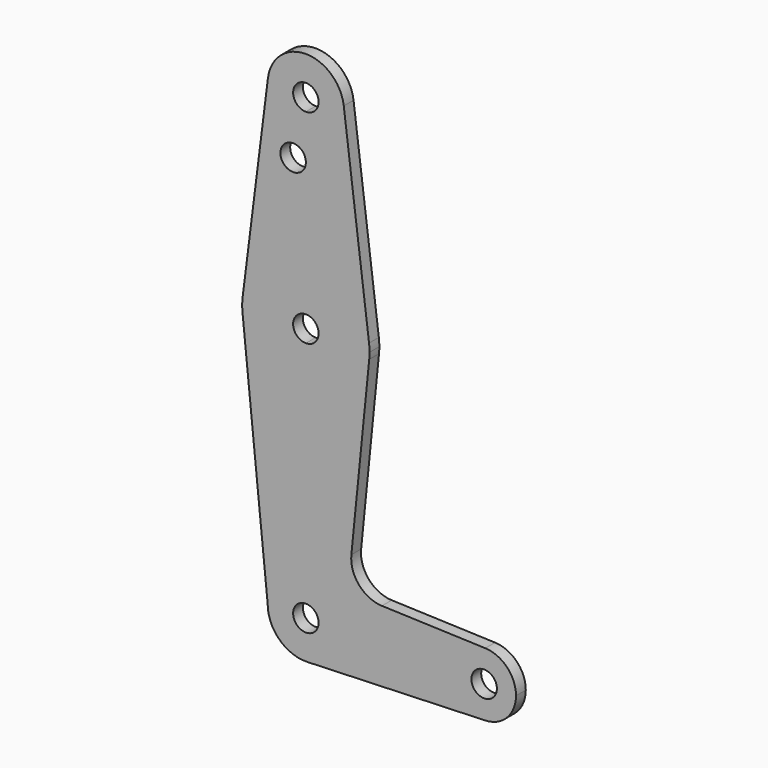
from build123d import *

# Parameters (mm, degrees)
F0_R     = 3.175
F1_DEPTH = 3.048


with BuildPart() as f1:
    # F0 (on Front) → F1 (new body)
    with BuildSketch(Plane.XZ):
        with BuildLine():
            ThreePointArc((-15.6978424192, 65.8650303134), (-15.7506727309, 65.4829103672), (-15.7942028036, 65.0996195795))
            Line((-15.7942028036, 65.0996195795), (-15.6978424192, 65.8650303134))
        make_face()
        with BuildLine():
            Line((0, 100.0252), (0, 79.375))
            ThreePointArc((0, 79.375), (10.5003255158, 75.40625), (15.7504882737, 65.484375))
            Line((15.7504882737, 65.484375), (9.4502929642, 115.490625))
            ThreePointArc((9.4502929642, 115.490625), (9.5063048942, 114.896483242), (9.525, 114.3))
            ThreePointArc((9.525, 114.3), (6.7351920908, 107.5648079092), (0, 104.775))
            Line((0, 104.775), (0, 100.0252))
        make_face()
        with BuildLine():
            Line((36.5125, 0), (9.525, 0))
            ThreePointArc((9.525, 0), (6.8544082832, -6.6138273403), (0.3401785645, -9.5189234446))
            Line((0.3401785645, -9.5189234446), (44.7334821429, -7.9324362036))
            ThreePointArc((44.7334821429, -7.9324362036), (38.9384772185, -5.7120069047), (36.5125, 0))
        make_face()
        with BuildLine():
            ThreePointArc((9.4502929642, 115.490625), (-0.0004428607, 123.8249999897), (-9.4504036385, 115.4897462203))
            ThreePointArc((-9.4504036385, 115.4897462203), (-7.1434570674, 107.9994725518), (0, 104.775))
            ThreePointArc((0, 104.775), (6.7351920908, 107.5648079092), (9.525, 114.3))
            ThreePointArc((9.525, 114.3), (9.5063048942, 114.896483242), (9.4502929642, 115.490625))
        make_face()
        with BuildLine():
            ThreePointArc((3.175, 114.3), (2.2450640303, 112.0549359697), (0, 111.125))
            ThreePointArc((0, 111.125), (-2.2450640303, 116.5450640303), (3.175, 114.3))
        make_face(mode=Mode.SUBTRACT)
        with BuildLine():
            ThreePointArc((44.7324052746, 7.9324746146), (38.9380895153, 5.7116327839), (36.5125, 0))
            ThreePointArc((36.5125, 0), (38.9384772185, -5.7120069047), (44.7334821429, -7.9324362036))
            ThreePointArc((44.7334821429, -7.9324362036), (50.1620069047, -5.5115227815), (52.3875, 0))
            ThreePointArc((52.3875, 0), (50.1616327839, 5.5119104847), (44.7324052746, 7.9324746146))
        make_face()
        with BuildLine():
            ThreePointArc((47.625, 0), (44.45, -3.175), (41.275, 0))
            ThreePointArc((41.275, 0), (44.45, 3.175), (47.625, 0))
        make_face(mode=Mode.SUBTRACT)
        with BuildLine():
            ThreePointArc((3.175, 0), (-2.2450640303, -2.2450640303), (0, 3.175))
            Line((0, 3.175), (0, 9.525))
            ThreePointArc((0, 9.525), (-6.7351920908, 6.7351920908), (-9.525, 0))
            ThreePointArc((-9.525, 0), (-6.6138273403, -6.8544082832), (0.3401785645, -9.5189234446))
            ThreePointArc((0.3401785645, -9.5189234446), (6.8544082832, -6.6138273403), (9.525, 0))
            Line((9.525, 0), (3.175, 0))
        make_face()
        with BuildLine():
            Line((0, 60.325), (0, 47.625))
            ThreePointArc((0, 47.625), (10.6492737428, 51.7267849017), (15.7954255641, 61.9125))
            ThreePointArc((15.7954255641, 61.9125), (15.8550939106, 62.7052534459), (15.875, 63.5))
            ThreePointArc((15.875, 63.5), (15.8438414904, 64.4941387366), (15.7504882737, 65.484375))
            ThreePointArc((15.7504882737, 65.484375), (10.5003255158, 75.40625), (0, 79.375))
            Line((0, 79.375), (0, 66.675))
            ThreePointArc((0, 66.675), (2.2450640303, 65.7450640303), (3.175, 63.5))
            ThreePointArc((3.175, 63.5), (2.2450640303, 61.2549359697), (0, 60.325))
        make_face()
        with BuildLine():
            ThreePointArc((-15.6978424192, 65.8650303134), (-10.3554519161, 75.5324661069), (0, 79.375))
            Line((0, 79.375), (0, 100.0252))
            Line((0, 100.0252), (0, 104.775))
            ThreePointArc((0, 104.775), (-7.1434570674, 107.9994725518), (-9.4504036385, 115.4897462203))
            Line((-9.4504036385, 115.4897462203), (-15.6978424192, 65.8650303134))
        make_face()
        with Locations((-3.175, 100.0252)):
            Circle(F0_R, mode=Mode.SUBTRACT)
        with BuildLine():
            Line((0, 47.625), (0, 9.525))
            ThreePointArc((0, 9.525), (6.7351920908, 6.7351920908), (9.525, 0))
            Line((9.525, 0), (36.5125, 0))
            ThreePointArc((36.5125, 0), (38.9380895153, 5.7116327839), (44.7324052746, 7.9324746146))
            Line((44.7324052746, 7.9324746146), (18.968327868, 8.8497055806))
            ThreePointArc((18.968327868, 8.8497055806), (13.2612039825, 11.5674628959), (11.3408358685, 17.5898921545))
            Line((11.3408358685, 17.5898921545), (15.7954255641, 61.9125))
            ThreePointArc((15.7954255641, 61.9125), (10.6492737428, 51.7267849017), (0, 47.625))
        make_face()
        with BuildLine():
            ThreePointArc((-15.7942028036, 61.9003804205), (-10.644756084, 51.722700101), (0, 47.625))
            Line((0, 47.625), (0, 60.325))
            ThreePointArc((0, 60.325), (-3.175, 63.5), (0, 66.675))
            Line((0, 66.675), (0, 79.375))
            ThreePointArc((0, 79.375), (-10.3554519161, 75.5324661069), (-15.6978424192, 65.8650303134))
            Line((-15.6978424192, 65.8650303134), (-15.7942028036, 65.0996195795))
            ThreePointArc((-15.7942028036, 65.0996195795), (-15.875, 63.5), (-15.7942028036, 61.9003804205))
        make_face()
        with BuildLine():
            ThreePointArc((-9.525, 0), (-6.7351920908, 6.7351920908), (0, 9.525))
            Line((0, 9.525), (0, 47.625))
            ThreePointArc((0, 47.625), (-10.644756084, 51.722700101), (-15.7942028036, 61.9003804205))
            Line((-15.7942028036, 61.9003804205), (-9.525, 0))
        make_face()
        with BuildLine():
            Line((0, 9.525), (0, 3.175))
            ThreePointArc((0, 3.175), (2.2450640303, 2.2450640303), (3.175, 0))
            Line((3.175, 0), (9.525, 0))
            ThreePointArc((9.525, 0), (6.7351920908, 6.7351920908), (0, 9.525))
        make_face()
    extrude(amount=F1_DEPTH)


solid = f1.part
